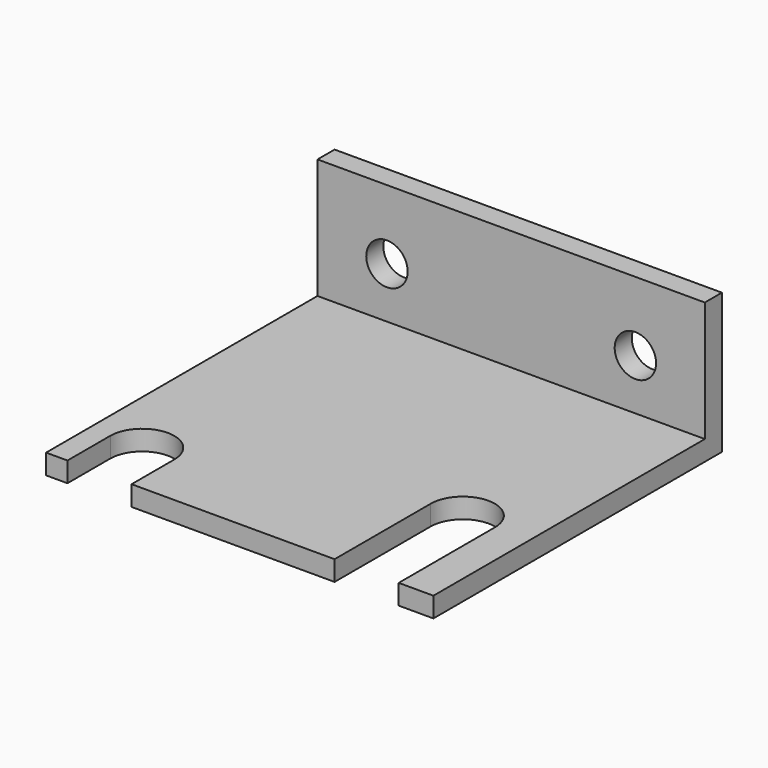
from build123d import *

# Parameters (mm, degrees)
BOX_W           = 29
BOX_H           = 27
BOX_DEPTH       = 1.5
POCKET_DEPTH    = 1.501
SKETCH001_W     = 29
SKETCH001_H     = 1.6
PAD_DEPTH       = 9
SKETCH002_R     = 1.55
POCKET001_DEPTH = 27.001


with BuildPart() as part:
    # Box → Box (new body)
    with BuildSketch(Plane.XY):
        with Locations((14.5, 13.5)):
            Rectangle(BOX_W, BOX_H)
    extrude(amount=BOX_DEPTH)

    # Sketch → Pocket (cut, through all)
    with BuildSketch(Plane.XY.offset(1.5)):
        with BuildLine():
            ThreePointArc((6.399962, 4.013566), (4, 6.4), (1.600038, 4.013566))
            Line((1.600038, 4.013566), (1.600038, 0))
            Line((1.600038, 0), (6.399962, 0))
            Line((6.399962, 4.013566), (6.399962, 0))
        make_face()
        with BuildLine():
            Line((21.6, 8.999953), (21.6, 0))
            Line((21.6, 0), (26.4, 0))
            Line((26.4, 8.999953), (26.4, 0))
            ThreePointArc((26.4, 8.999953), (24, 11.4), (21.6, 8.999953))
        make_face()
    extrude(amount=-POCKET_DEPTH, mode=Mode.SUBTRACT)

    # Sketch001 → Pad (new body)
    with BuildSketch(Plane.XY.offset(1.5)):
        with Locations((14.5, 26.2)):
            Rectangle(SKETCH001_W, SKETCH001_H)
    extrude(amount=PAD_DEPTH)

    # Sketch002 → Pocket001 (cut, through all)
    with BuildSketch(Plane(origin=(0, 27, 0), x_dir=(-1, 0, 0), z_dir=(0, 1, 0))):
        with Locations((-23.8, 5.31)):
            Circle(SKETCH002_R)
        with Locations((-5.2, 5.31)):
            Circle(SKETCH002_R)
    extrude(amount=-POCKET001_DEPTH, mode=Mode.SUBTRACT)


solid = part.part
